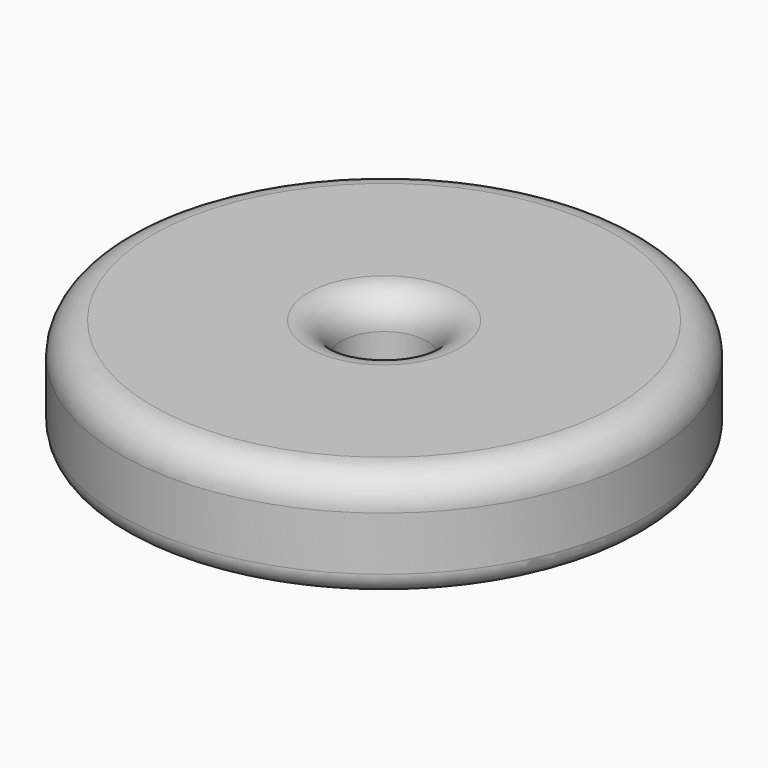
from build123d import *

# Parameters (mm, degrees)
F0_R     = 24.5
F0_R_2   = 4
F1_DEPTH = 10
F2_R     = 3
F3_R     = 2


with BuildPart() as f1:
    # F0 (on Top) → F1 (new body)
    with BuildSketch(Plane.XY):
        Circle(F0_R)
        Circle(F0_R_2, mode=Mode.SUBTRACT)
    extrude(amount=F1_DEPTH)

    # F2
    f2_edges = [f1.edges().sort_by_distance(p)[0] for p in [
        (-24.5, 0, 10),
        (-4, 0, 10),
    ]]
    fillet(f2_edges, radius=F2_R)

    # F3
    f3_edges = [f1.edges().sort_by_distance(p)[0] for p in [
        (-24.5, 0, 0),
    ]]
    fillet(f3_edges, radius=F3_R)


solid = f1.part
